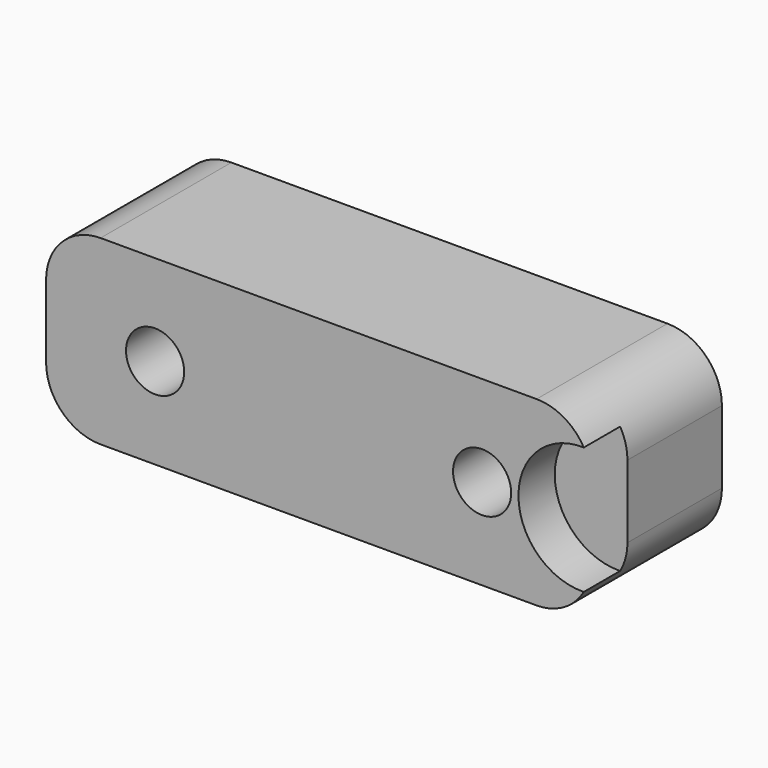
from build123d import *

# Parameters (mm, degrees)
CYLINDER464_R     = 3.5
CYLINDER464_DEPTH = 2.5
CYLINDER152_R     = 1.6
CYLINDER152_DEPTH = 9
CYLINDER153_R     = 1.6
CYLINDER153_DEPTH = 9
CYLINDER154_R     = 1.6
CYLINDER154_DEPTH = 9
CYLINDER155_R     = 1.6
CYLINDER155_DEPTH = 9
BOX072_W          = 30
BOX072_H          = 9
BOX072_DEPTH      = 10
FILLET037_R       = 3


with BuildPart() as cylinder578:
    # Cylinder464 → Cylinder464 (new body)
    with BuildSketch(Plane(origin=(569.5, 72, 10), x_dir=(1, 0, 0), z_dir=(0, 1, 0))):
        Circle(CYLINDER464_R)
    extrude(amount=CYLINDER464_DEPTH)


with BuildPart() as cylinder152:
    # Cylinder152 → Cylinder152 (new body)
    with BuildSketch(Plane(origin=(555, -5, 10), x_dir=(1, 0, 0), z_dir=(0, -1, 0))):
        Circle(CYLINDER152_R)
    extrude(amount=CYLINDER152_DEPTH)


with BuildPart() as fusion138:
    # Cylinder153 → Cylinder153 (new body)
    with BuildSketch(Plane(origin=(450, -5, 10), x_dir=(1, 0, 0), z_dir=(0, -1, 0))):
        Circle(CYLINDER153_R)
    extrude(amount=CYLINDER153_DEPTH)

    # Fusion138: union Cylinder152
    add(cylinder152.part)


with BuildPart() as fusion138_1:
    # Fusion138 placement: moved
    add(fusion138.part.moved(Location((-9, 5, 0))))


with BuildPart() as cylinder154:
    # Cylinder154 → Cylinder154 (new body)
    with BuildSketch(Plane(origin=(555, -5, 10), x_dir=(1, 0, 0), z_dir=(0, -1, 0))):
        Circle(CYLINDER154_R)
    extrude(amount=CYLINDER154_DEPTH)


with BuildPart() as fusion141:
    # Cylinder155 → Cylinder155 (new body)
    with BuildSketch(Plane(origin=(450, -5, 10), x_dir=(1, 0, 0), z_dir=(0, -1, 0))):
        Circle(CYLINDER155_R)
    extrude(amount=CYLINDER155_DEPTH)

    # Fusion139: union Cylinder154
    add(cylinder154.part)


with BuildPart() as fusion141_1:
    # Fusion139 placement: moved
    add(fusion141.part.moved(Location((9, 5, 0))))

    # Fusion141: union Fusion138
    add(fusion138_1.part)


with BuildPart() as fender_spacer_rear_right:
    # Box072 → Box072 (new body)
    with BuildSketch(Plane(origin=(435, -9, 5), x_dir=(1, 0, 0), z_dir=(0, 0, 1))):
        with Locations((15, 4.5)):
            Rectangle(BOX072_W, BOX072_H)
    extrude(amount=BOX072_DEPTH)

    # Fillet037
    fillet037_edges = [fender_spacer_rear_right.edges().sort_by_distance(p)[0] for p in [
        (435, -4.5, 15),
        (435, -4.5, 5),
        (465, -4.5, 15),
        (465, -4.5, 5),
    ]]
    fillet(fillet037_edges, radius=FILLET037_R)


with BuildPart() as fender_spacer_rear_right_1:
    # Fillet037 placement: moved
    add(fender_spacer_rear_right.part.moved(Location((105, 0, 0))))

    # Cut087: cut Fusion141
    add(fusion141_1.part, mode=Mode.SUBTRACT)


with BuildPart() as fender_spacer_rear_right_2:
    # Cut087 placement: moved
    add(fender_spacer_rear_right_1.part.moved(Location((0, 81, 0))))

    # Cut320: cut Cylinder578
    add(cylinder578.part, mode=Mode.SUBTRACT)


solid = fender_spacer_rear_right_2.part
